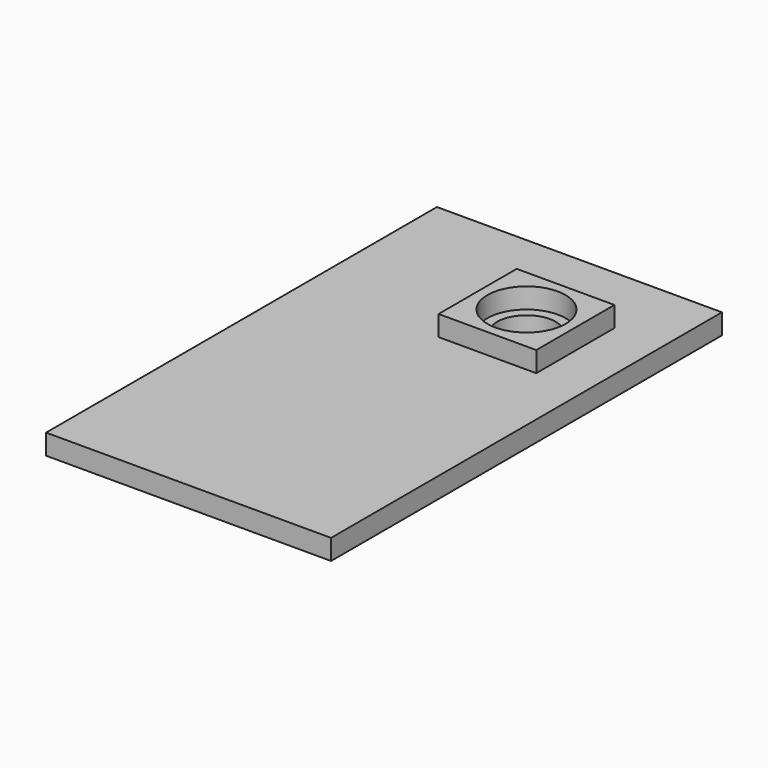
from build123d import *

# Parameters (mm, degrees)
F1_DEPTH       = 6.35
F0_W           = 15.24
F0_H           = 15.24
F2_DEPTH       = 12.7
F4_D           = 18.288
F4_CBORE_D     = 24.384
F4_CBORE_DEPTH = 6.35


with BuildPart() as f1:
    # F0 (on Top) → F1 (new body)
    with BuildSketch(Plane.XY):
        Polygon((-44.45, -76.2), (44.45, -76.2), (44.45, 38.1), (29.21, 38.1), (29.21, 22.86), (-1.27, 22.86), (-1.27, 53.34), (13.97, 53.34), (13.97, 76.2), (-44.45, 76.2), align=None)
        Polygon((29.21, 38.1), (44.45, 38.1), (44.45, 76.2), (13.97, 76.2), (13.97, 53.34), (29.21, 53.34), align=None)
    extrude(amount=F1_DEPTH)

    # F0 (on Top) → F2 (join)
    with BuildSketch(Plane.XY):
        Polygon((29.21, 22.86), (29.21, 38.1), (13.97, 38.1), (13.97, 53.34), (-1.27, 53.34), (-1.27, 22.86), align=None)
        with Locations((21.59, 45.72)):
            Rectangle(F0_W, F0_H)
    extrude(amount=F2_DEPTH)

    # F4 (through all)
    with Locations(Plane.XY.offset(12.7)):
        with Locations((13.97, 38.1)):
            CounterBoreHole(F4_D / 2, F4_CBORE_D / 2, F4_CBORE_DEPTH)


solid = f1.part
